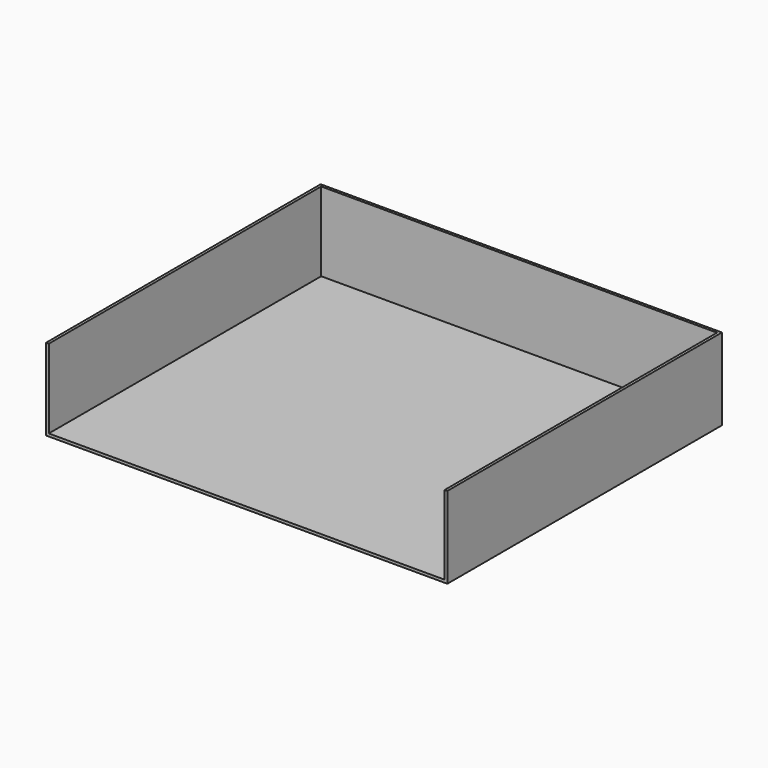
from build123d import *

# Parameters (mm, degrees)
F0_W     = 1036
F0_H     = 211
F1_DEPTH = 886
F2_T     = -7


with BuildPart() as f1:
    # F0 (on Front) → F1 (new body)
    with BuildSketch(Plane.XZ):
        with Locations((518, -105.5)):
            Rectangle(F0_W, F0_H)
    extrude(amount=-F1_DEPTH)

    # F2
    f2_openings = [f1.faces().sort_by_distance(p)[0] for p in [
        (518, 443, 0),
        (518, 0, -105.5),
    ]]
    offset(amount=F2_T, openings=f2_openings)


solid = f1.part
